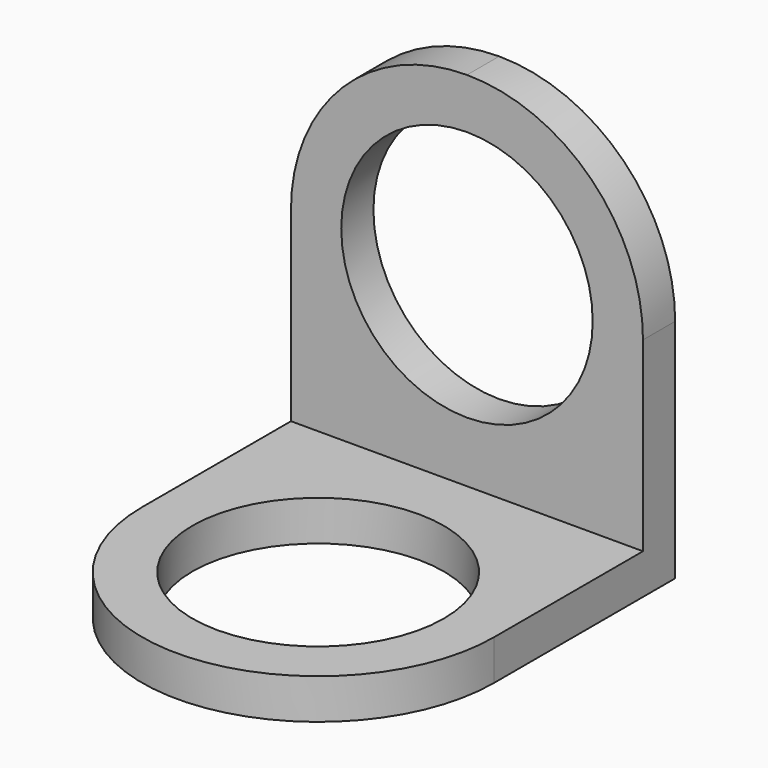
from build123d import *

# Parameters (mm, degrees)
F0_R     = 12.5
F1_DEPTH = 4
F2_W     = 35
F2_H     = 4
F3_DEPTH = 36
F4_R     = 12.5
F5_DEPTH = 25


with BuildPart() as f1:
    # F0 (on Top) → F1 (new body)
    with BuildSketch(Plane.XY):
        with BuildLine():
            Line((17.5, 0.575275), (-17.5, 0.575275))
            Line((-17.5, 0.575275), (-17.5, -21.924725))
            ThreePointArc((-17.5, -21.924725), (0, -39.424725), (17.5, -21.924725))
            Line((17.5, -21.924725), (17.5, 0.575275))
        make_face()
        with Locations((0, -21.924725)):
            Circle(F0_R, mode=Mode.SUBTRACT)
    extrude(amount=F1_DEPTH)

    # F2 (on face) → F3 (join)
    with BuildSketch(Plane.XY.offset(4)):
        with Locations((0, -1.424725)):
            Rectangle(F2_W, F2_H)
    extrude(amount=F3_DEPTH)

    # F4 (on face) → F5 (cut)
    with BuildSketch(Plane.XZ.offset(3.424725)):
        with BuildLine():
            ThreePointArc((-17.5, 22.5), (-12.374369, 34.874369), (0, 40))
            Line((0, 40), (-17.5, 40))
            Line((-17.5, 40), (-17.5, 22.5))
        make_face()
        with BuildLine():
            ThreePointArc((0, 40), (12.374369, 34.874369), (17.5, 22.5))
            Line((17.5, 22.5), (17.5, 40))
            Line((17.5, 40), (0, 40))
        make_face()
        with Locations((0, 22.5)):
            Circle(F4_R)
    extrude(amount=-F5_DEPTH, mode=Mode.SUBTRACT)


solid = f1.part
